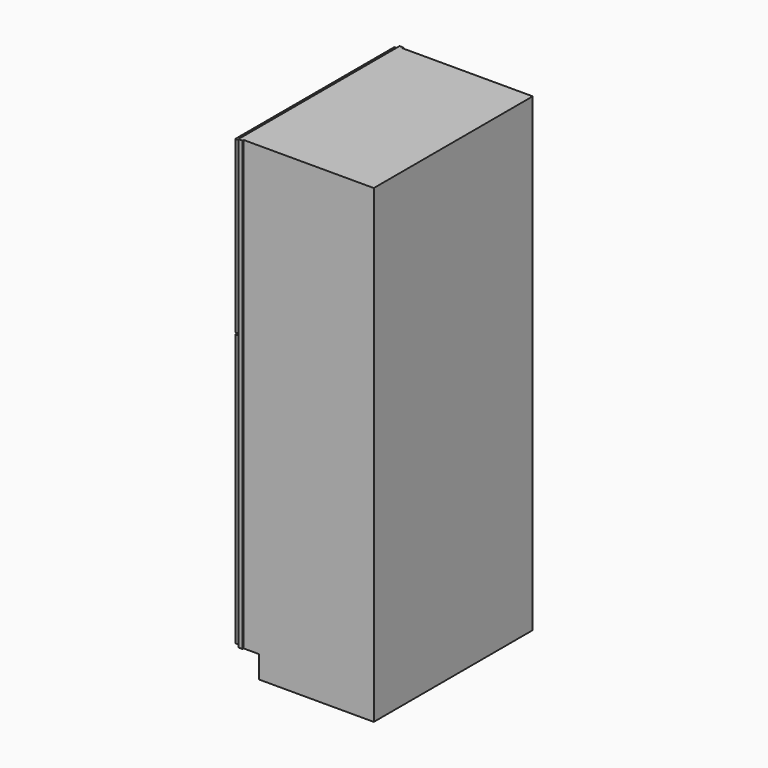
from build123d import *

# Parameters (mm, degrees)
F0_W      = 609.6
F0_H      = 2133.6
F1_DEPTH  = 914.4
F2_W      = 88.9
F2_H      = 101.6
F3_DEPTH  = 914.401
F4_W      = 831.85
F4_H      = 1949.45
F5_DEPTH  = 19.05
F6_W      = 590.55
F6_H      = 6.35
F7_DEPTH  = 2133.601
F8_W      = 587.375
F8_H      = 876.3
F9_DEPTH  = 1990.725
F10_W     = 831.85
F10_H     = 41.275
F11_DEPTH = 19.05
F12_W     = 450.85
F12_H     = 1235.0877
F12_W_2   = 336.55
F12_H_2   = 1120.7877
F12_H_3   = 773.0998
F12_H_4   = 658.7998
F13_DEPTH = 19.05
F14_W     = 6.35
F14_H     = 336.55
F15_DEPTH = 1120.7877
F16_W     = 6.35
F16_H     = 336.55
F17_DEPTH = 658.7998
F18_SIZE  = 3.175
F20_W     = 504.825
F20_H     = 876.3
F21_DEPTH = 101.6
F22_W     = 876.3
F22_H     = 12.7
F23_DEPTH = 587.375


with BuildPart() as f1:
    # F0 (on Front) → F1 (new body)
    with BuildSketch(Plane.XZ):
        Rectangle(F0_W, F0_H)
    extrude(amount=-F1_DEPTH)

    # F2 (on face) → F3 (cut, through all)
    with BuildSketch(Plane.XZ):
        with Locations((-260.35, -1016)):
            Rectangle(F2_W, F2_H)
    extrude(amount=-F3_DEPTH, mode=Mode.SUBTRACT)

    # F4 (on face) → F5 (cut)
    with BuildSketch(Plane(origin=(-304.8, 0, 0), x_dir=(0, -1, 0), z_dir=(-1, 0, 0))):
        with Locations((-457.2, 50.8)):
            Rectangle(F4_W, F4_H)
    extrude(amount=-F5_DEPTH, mode=Mode.SUBTRACT)

    # F6 (on face) → F7 (cut, through all)
    with BuildSketch(Plane.XY.offset(1066.8)):
        with Locations((9.525, 911.225)):
            Rectangle(F6_W, F6_H)
        with Locations((9.525, 3.175)):
            Rectangle(F6_W, F6_H)
    extrude(amount=-F7_DEPTH, mode=Mode.SUBTRACT)

    # F8 (on face) → F9 (cut, through all)
    with BuildSketch(Plane.XY.offset(1066.8)):
        with Locations((7.9375, 457.2)):
            Rectangle(F8_W, F8_H)
    extrude(amount=-F9_DEPTH, mode=Mode.SUBTRACT)

    # F10 (on face) → F11 (join, through all)
    with BuildSketch(Plane(origin=(-304.8, 0, 0), x_dir=(0, -1, 0), z_dir=(-1, 0, 0))):
        with Locations((-457.2, 280.9875)):
            Rectangle(F10_W, F10_H)
    extrude(amount=-F11_DEPTH)

    # F20 (on face) → F21 (cut)
    with BuildSketch(Plane(origin=(0, 0, -1066.8), x_dir=(1, 0, 0), z_dir=(0, 0, -1))):
        with Locations((49.2125, -457.2)):
            Rectangle(F20_W, F20_H)
    extrude(amount=-F21_DEPTH, mode=Mode.SUBTRACT)

    # F22 (on face) → F23 (join, through all)
    with BuildSketch(Plane.YZ.offset(-285.75)):
        with Locations((457.2, 1060.45)):
            Rectangle(F22_W, F22_H)
    extrude(amount=F23_DEPTH)


with BuildPart() as f13:
    # F12 (on face) → F13 (new body)
    with BuildSketch(Plane(origin=(-304.8, 0, 0), x_dir=(0, -1, 0), z_dir=(-1, 0, 0))):
        with Locations((-682.625, -339.71865)):
            Rectangle(F12_W, F12_H)
        with Locations((-682.625, -339.71865)):
            Rectangle(F12_W_2, F12_H_2, mode=Mode.SUBTRACT)
        with Locations((-682.625, 672.3126)):
            Rectangle(F12_W, F12_H_3)
        with Locations((-682.625, 672.3126)):
            Rectangle(F12_W_2, F12_H_4, mode=Mode.SUBTRACT)
    extrude(amount=F13_DEPTH)

    # F14 (on face) → F15 (join, through all)
    with BuildSketch(Plane.XY.offset(-900.1125)):
        with Locations((-312.7375, 682.625)):
            Rectangle(F14_W, F14_H)
    extrude(amount=F15_DEPTH)

    # F16 (on face) → F17 (join, through all)
    with BuildSketch(Plane.XY.offset(342.9127)):
        with Locations((-312.7375, 682.625)):
            Rectangle(F16_W, F16_H)
    extrude(amount=F17_DEPTH)

    # F18
    f18_edges = [f13.edges().sort_by_distance(p)[0] for p in [
        (-323.85, 850.9, -339.71865),
        (-323.85, 682.625, -900.1125),
        (-323.85, 514.35, -339.71865),
        (-323.85, 682.625, 220.6752),
        (-323.85, 682.625, 342.9127),
        (-323.85, 850.9, 672.3126),
        (-323.85, 514.35, 672.3126),
        (-323.85, 682.625, 1001.7125),
    ]]
    chamfer(f18_edges, length=F18_SIZE)


with BuildPart() as f19_1:
    # F19: instance of F13
    add(f13.part.mirror(Plane(origin=(-314.325, 457.2, -339.71865), x_dir=(1, 0, 0), z_dir=(0, -1, 0))))


solid = Compound([f1.part, f13.part, f19_1.part])
